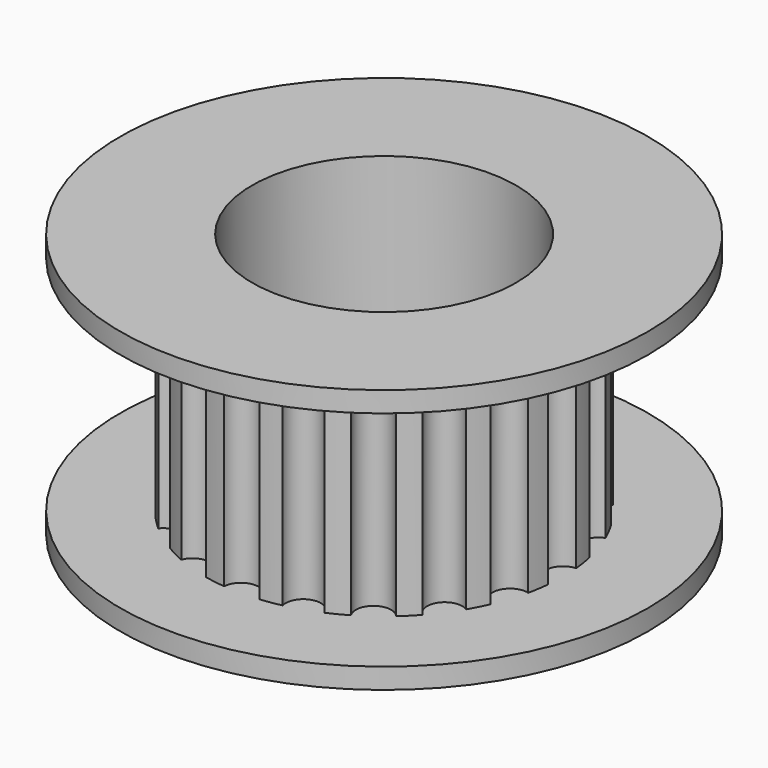
from build123d import *

# Parameters (mm, degrees)
CYLINDER_R        = 0.6
CYLINDER_DEPTH    = 7.6
ARRAY_COUNT       = 20
CYLINDER001_R     = 6.1
CYLINDER001_DEPTH = 7.6
SKETCH_R          = 9
PAD_DEPTH         = 0.7
SKETCH001_R       = 9
PAD001_DEPTH      = 0.7
SKETCH002_R       = 4.5
POCKET_DEPTH      = 9.001


with BuildPart() as array:
    # Cylinder → Cylinder (new body)
    with BuildSketch(Plane(origin=(6.1, 0, 0), x_dir=(1, 0, 0), z_dir=(0, 0, 1))):
        Circle(CYLINDER_R)
    extrude(amount=CYLINDER_DEPTH)

    # Array: Array ×20 about axis
    array_axis = Axis((0, 0, 0), (0, 0, 1))


with BuildPart() as array_1:
    add(array.part)
    for i in range(1, ARRAY_COUNT):
        add(array.part.rotate(array_axis, i * 360 / ARRAY_COUNT))


with BuildPart() as pocket:
    # Cylinder001 → Cylinder001 (new body)
    with BuildSketch(Plane.XY):
        Circle(CYLINDER001_R)
    extrude(amount=CYLINDER001_DEPTH)

    # Cut: cut Array
    add(array_1.part, mode=Mode.SUBTRACT)


with BuildPart() as pocket_1:
    # Cut placement: moved
    add(pocket.part.moved(Location((0, 0, 1))))

    # Sketch → Pad (new body)
    with BuildSketch(Plane.XY.offset(8.6)):
        Circle(SKETCH_R)
    extrude(amount=PAD_DEPTH)

    # Sketch001 → Pad001 (new body)
    with BuildSketch(Plane(origin=(0, 0, 1), x_dir=(1, 0, 0), z_dir=(0, 0, -1))):
        Circle(SKETCH001_R)
    extrude(amount=PAD001_DEPTH)

    # Sketch002 → Pocket (cut, through all)
    with BuildSketch(Plane.XY.offset(9.3)):
        Circle(SKETCH002_R)
    extrude(amount=-POCKET_DEPTH, mode=Mode.SUBTRACT)


solid = pocket_1.part
